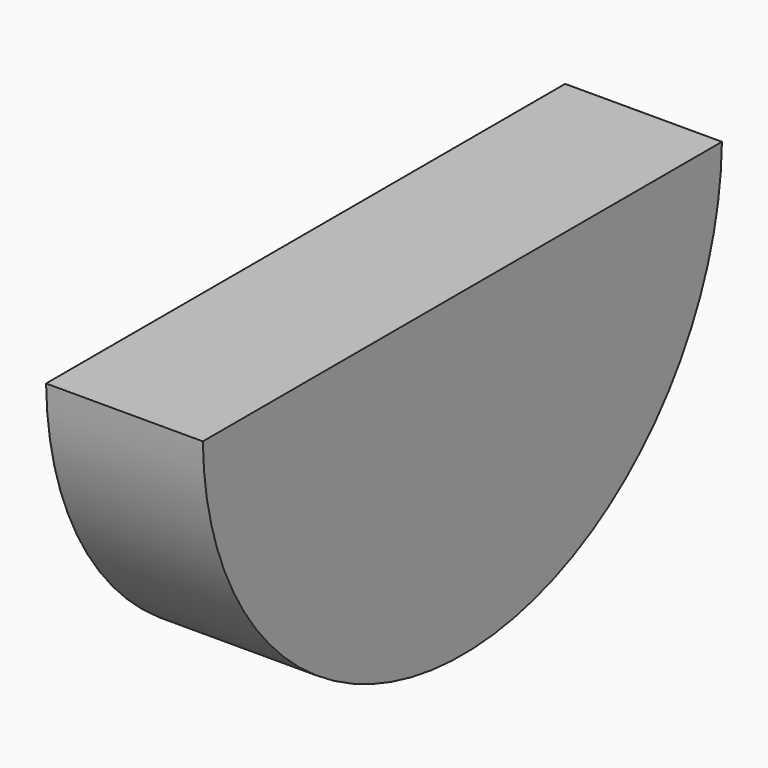
from build123d import *

# Parameters (mm, degrees)
F1_DEPTH = 25


with BuildPart() as f1:
    # F0 (on Right) → F1 (new body)
    with BuildSketch(Plane.YZ):
        with BuildLine():
            Line((-5.89188, 0), (-44.404652, 0))
            ThreePointArc((-44.404652, 0), (7.328924, -51.020043), (59.0625, 0))
            Line((59.0625, 0), (-5.89188, 0))
        make_face()
    extrude(amount=F1_DEPTH)


solid = f1.part
